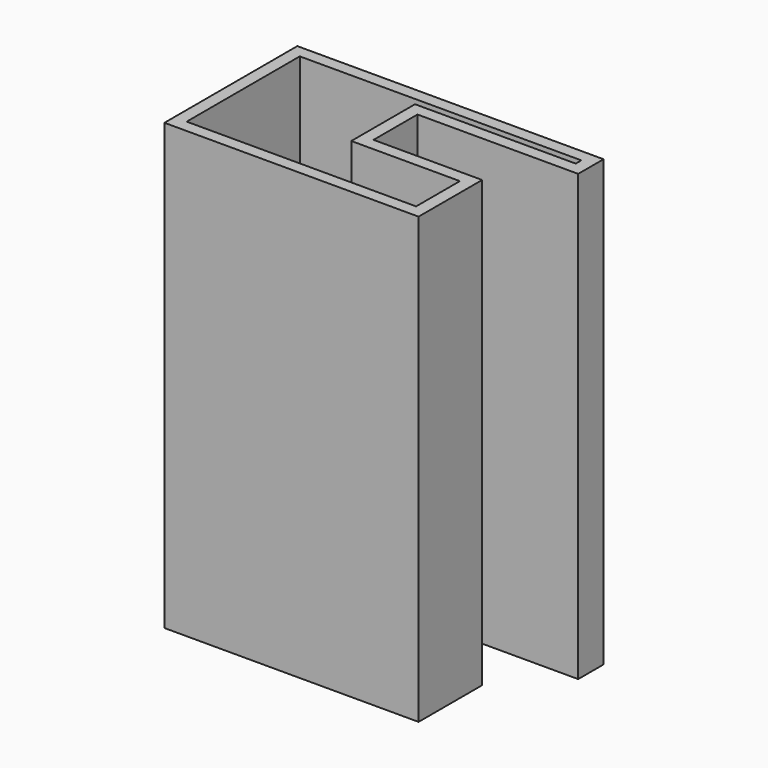
from build123d import *

# Parameters (mm, degrees)
F1_DEPTH = 900


with BuildPart() as f1:
    # F0 (on Top) → F1 (new body)
    with BuildSketch(Plane.XY):
        Polygon((811.575913, -561.317205), (703.173161, -561.317205), (191.899151, -561.317205), (191.899151, -897.360921), (706.129754, -897.360921), (706.129754, -736.62374), (486.383373, -736.62374), (486.383373, -625.519359), (811.575913, -625.519359), align=None)
        Polygon((216.899151, -586.317205), (703.173161, -586.317205), (786.575913, -586.317205), (786.575913, -600.519359), (461.383373, -600.519359), (461.383373, -761.62374), (681.129754, -761.62374), (681.129754, -872.360921), (216.899151, -872.360921), align=None, mode=Mode.SUBTRACT)
    extrude(amount=F1_DEPTH)


solid = f1.part
